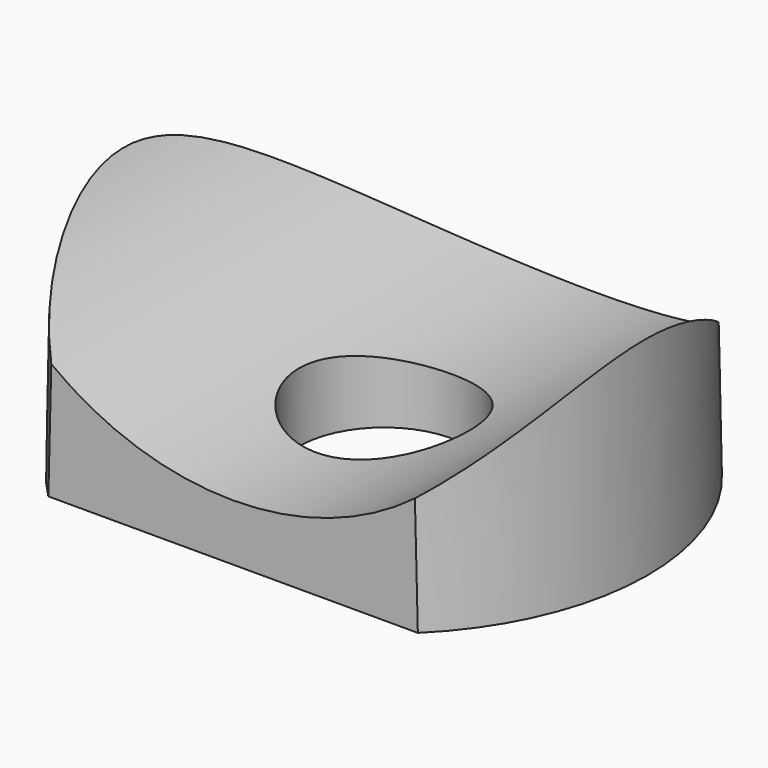
from build123d import *

# Parameters (mm, degrees)
F0_R     = 14
F1_DEPTH = 12
F1_TAPER = 1
F2_R     = 16
F3_DEPTH = 16
F4_R     = 4.5
F5_DEPTH = 5
F7_DEPTH = 10.9201391502


with BuildPart() as f1:
    # F0 (on Top) → F1 (new body)
    with BuildSketch(Plane.XY):
        Circle(F0_R)
    extrude(amount=F1_DEPTH, taper=F1_TAPER)

    # F2 (on Front) → F3 (cut, symmetric)
    with BuildSketch(Plane.XZ):
        with Locations((0, 19)):
            Circle(F2_R)
    extrude(amount=F3_DEPTH, both=True, mode=Mode.SUBTRACT)

    # F4 (on face) → F5 (cut)
    with BuildSketch(Plane(origin=(0, 0, 0), x_dir=(1, 0, 0), z_dir=(0, 0, -1))):
        Circle(F4_R)
    extrude(amount=-F5_DEPTH, mode=Mode.SUBTRACT)

    # F6 (on face) → F7 (cut, through all)
    with BuildSketch(Plane(origin=(0, 0, 0), x_dir=(1, 0, 0), z_dir=(0, 0, -1))):
        with BuildLine():
            ThreePointArc((9.7979589711, 10), (0, 14), (-9.7979589711, 10))
            Line((-9.7979589711, 10), (9.7979589711, 10))
        make_face()
    extrude(amount=-F7_DEPTH, mode=Mode.SUBTRACT)


solid = f1.part
